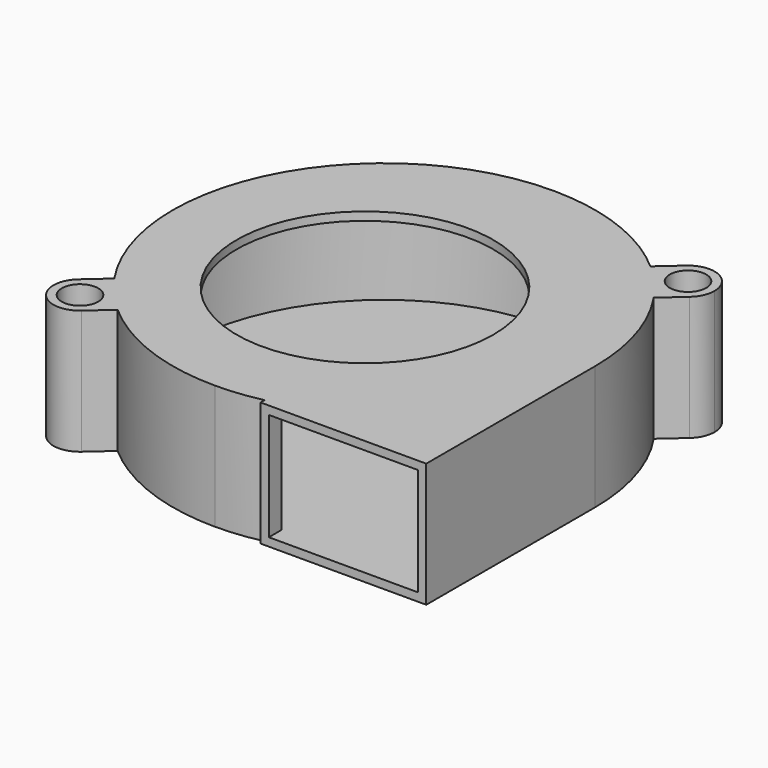
from build123d import *

# Parameters (mm, degrees)
F1_R     = 24.5
F1_R_2   = 15.5
F1_R_3   = 2.2
F2_DEPTH = 15
F3_START = 1
F3_DEPTH = 24
F4_START = 1
F4_DEPTH = 13
F5_W     = 18
F5_H     = 13
F6_DEPTH = 24.5


with BuildPart() as f2:
    # F1 (on Top) → F2 (new body)
    with BuildSketch(Plane.XY):
        with BuildLine():
            ThreePointArc((5.5, -24.899799196), (19.8808953521, -15.9687194227), (25.5, 0))
            ThreePointArc((25.5, 0), (24.3688816797, 7.5104996957), (21.0758740643, 14.3547041914))
            ThreePointArc((21.0758740643, 14.3547041914), (20.1955865128, 15.5688241496), (19.2454493009, 16.7290968438))
            ThreePointArc((19.2454493009, 16.7290968438), (19.1021469265, 16.8809670513), (18.9690541914, 17.0418597308))
            ThreePointArc((18.9690541914, 17.0418597308), (17.9344457512, 18.1274834325), (16.8378081669, 19.1504103385))
            ThreePointArc((16.8378081669, 19.1504103385), (8.9976257046, 23.85985607), (1.63e-08, 25.5))
            ThreePointArc((1.63e-08, 25.5), (-18.0312229145, 18.031222926), (-25.5, 0))
            ThreePointArc((-25.5, 0), (-24.3688816797, -7.5104996957), (-21.0758740643, -14.3547041914))
            ThreePointArc((-21.0758740643, -14.3547041914), (-20.1955865128, -15.5688241496), (-19.2454493009, -16.7290968438))
            ThreePointArc((-19.2454493009, -16.7290968438), (-19.1021469265, -16.8809670513), (-18.9690541914, -17.0418597308))
            ThreePointArc((-18.9690541914, -17.0418597308), (-17.9344457512, -18.1274834325), (-16.8378081669, -19.1504103385))
            ThreePointArc((-16.8378081669, -19.1504103385), (-8.99762568, -23.8598560793), (3.64e-08, -25.5))
            ThreePointArc((3.64e-08, -25.5), (2.766326147, -25.3495057082), (5.5, -24.899799196))
        make_face()
        Circle(F1_R, mode=Mode.SUBTRACT)
        Circle(F1_R)
        with Locations((-1.5, -1)):
            Circle(F1_R_2, mode=Mode.SUBTRACT)
        with Locations((-1.5, -1)):
            Circle(F1_R_2)
        with BuildLine():
            Line((5.5, -25.5), (25.5, -25.5))
            Line((25.5, -25.5), (25.5, 0))
            ThreePointArc((25.5, 0), (19.8808953521, -15.9687194227), (5.5, -24.899799196))
            Line((5.5, -24.899799196), (5.5, -25.5))
        make_face()
        with BuildLine():
            ThreePointArc((-18.3, -19), (-18.4718795774, -17.9653567251), (-18.9690541914, -17.0418597308))
            ThreePointArc((-18.9690541914, -17.0418597308), (-19.1078916798, -16.88604381), (-19.2454493009, -16.7290968438))
            ThreePointArc((-19.2454493009, -16.7290968438), (-21.4071542379, -15.801347211), (-23.6190329487, -16.6021469265))
            ThreePointArc((-23.6190329487, -16.6021469265), (-23.8978530735, -21.1190329487), (-19.3809670513, -21.3978530735))
            ThreePointArc((-19.3809670513, -21.3978530735), (-18.582731977, -20.315122535), (-18.3, -19))
        make_face()
        with Locations((-21.5, -19)):
            Circle(F1_R_3, mode=Mode.SUBTRACT)
        with BuildLine():
            ThreePointArc((18.9690541914, 17.0418597308), (19.1078916798, 16.88604381), (19.2454493009, 16.7290968438))
            ThreePointArc((19.2454493009, 16.7290968438), (21.4071542379, 15.801347211), (23.6190329487, 16.6021469265))
            ThreePointArc((23.6190329487, 16.6021469265), (24.417268023, 17.684877465), (24.7, 19))
            ThreePointArc((24.7, 19), (22.815122535, 21.917268023), (19.3809670513, 21.3978530735))
            ThreePointArc((19.3809670513, 21.3978530735), (18.3142120109, 19.3012555205), (18.9690541914, 17.0418597308))
        make_face()
        with Locations((21.5, 19)):
            Circle(F1_R_3, mode=Mode.SUBTRACT)
        with BuildLine():
            Line((-19.3809670513, -21.3978530735), (-16.8378081669, -19.1504103385))
            ThreePointArc((-16.8378081669, -19.1504103385), (-17.9344457512, -18.1274834325), (-18.9690541914, -17.0418597308))
            ThreePointArc((-18.9690541914, -17.0418597308), (-18.4718795774, -17.9653567251), (-18.3, -19))
            ThreePointArc((-18.3, -19), (-18.582731977, -20.315122535), (-19.3809670513, -21.3978530735))
        make_face()
        with BuildLine():
            ThreePointArc((-19.2454493009, -16.7290968438), (-20.1955865128, -15.5688241496), (-21.0758740643, -14.3547041914))
            Line((-21.0758740643, -14.3547041914), (-23.6190329487, -16.6021469265))
            ThreePointArc((-23.6190329487, -16.6021469265), (-21.4071542379, -15.801347211), (-19.2454493009, -16.7290968438))
        make_face()
        with BuildLine():
            ThreePointArc((19.2454493009, 16.7290968438), (20.1955865128, 15.5688241496), (21.0758740643, 14.3547041914))
            Line((21.0758740643, 14.3547041914), (23.6190329487, 16.6021469265))
            ThreePointArc((23.6190329487, 16.6021469265), (21.4071542379, 15.801347211), (19.2454493009, 16.7290968438))
        make_face()
        with BuildLine():
            Line((19.3809670513, 21.3978530735), (16.8378081669, 19.1504103385))
            ThreePointArc((16.8378081669, 19.1504103385), (17.9344457512, 18.1274834325), (18.9690541914, 17.0418597308))
            ThreePointArc((18.9690541914, 17.0418597308), (18.3142120109, 19.3012555205), (19.3809670513, 21.3978530735))
        make_face()
        with BuildLine():
            ThreePointArc((-19.2454493009, -16.7290968438), (-19.1078916798, -16.88604381), (-18.9690541914, -17.0418597308))
            ThreePointArc((-18.9690541914, -17.0418597308), (-19.1021469265, -16.8809670513), (-19.2454493009, -16.7290968438))
        make_face()
        with BuildLine():
            ThreePointArc((18.9690541914, 17.0418597308), (19.1021469265, 16.8809670513), (19.2454493009, 16.7290968438))
            ThreePointArc((19.2454493009, 16.7290968438), (19.1078916798, 16.88604381), (18.9690541914, 17.0418597308))
        make_face()
    extrude(amount=F2_DEPTH)

    # F1 (on Top) → F3 (cut)
    with BuildSketch(Plane.XY.offset(F3_START)):
        with Locations((-1.5, -1)):
            Circle(F1_R_2)
    extrude(amount=F3_DEPTH, mode=Mode.SUBTRACT)

    # F1 (on Top) → F4 (cut)
    with BuildSketch(Plane.XY.offset(F4_START)):
        Circle(F1_R)
        with Locations((-1.5, -1)):
            Circle(F1_R_2, mode=Mode.SUBTRACT)
        with Locations((-1.5, -1)):
            Circle(F1_R_2)
    extrude(amount=F4_DEPTH, mode=Mode.SUBTRACT)

    # F5 (on face) → F6 (cut, through all)
    with BuildSketch(Plane.XZ.offset(25.5)):
        with Locations((15.5, 7.5)):
            Rectangle(F5_W, F5_H)
    extrude(amount=-F6_DEPTH, mode=Mode.SUBTRACT)


solid = f2.part
